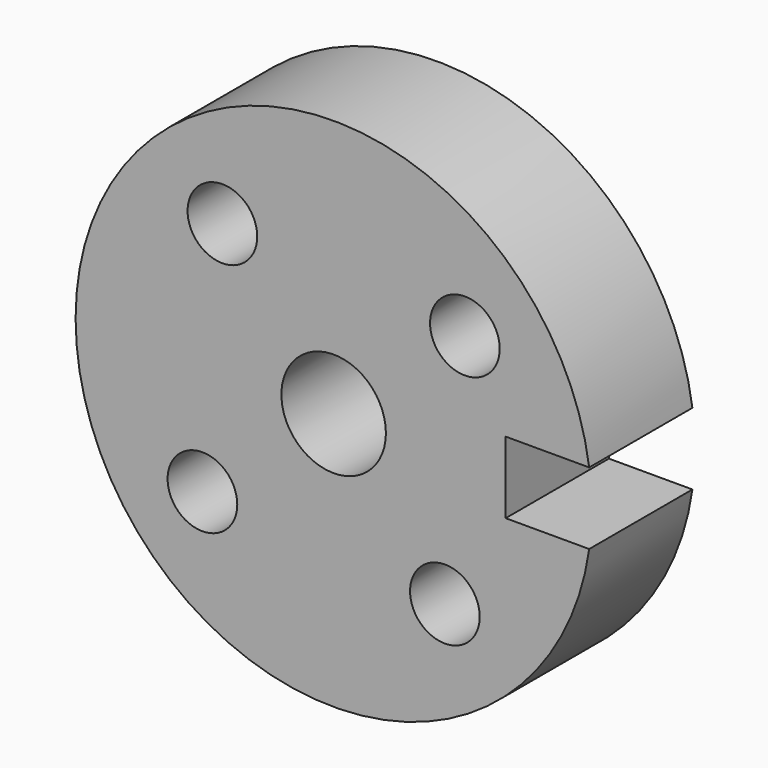
from build123d import *

# Parameters (mm, degrees)
F0_R     = 4.05
F0_R_2   = 6.075
F1_DEPTH = 15


with BuildPart() as f1:
    # F0 (on Front) → F1 (new body)
    with BuildSketch(Plane.XZ):
        with BuildLine():
            Line((20, 4.175), (29.708069, 4.175))
            ThreePointArc((29.708069, 4.175), (-30, 0), (29.708069, -4.175))
            Line((29.708069, -4.175), (20, -4.175))
            Line((20, -4.175), (20, 4.175))
        make_face()
        with Locations((-15.255275, -12.933545)):
            Circle(F0_R, mode=Mode.SUBTRACT)
        with Locations((12.933545, -15.255275)):
            Circle(F0_R, mode=Mode.SUBTRACT)
        with Locations((-12.933545, 15.255275)):
            Circle(F0_R, mode=Mode.SUBTRACT)
        Circle(F0_R_2, mode=Mode.SUBTRACT)
        with Locations((15.255275, 12.933545)):
            Circle(F0_R, mode=Mode.SUBTRACT)
    extrude(amount=F1_DEPTH)


solid = f1.part
